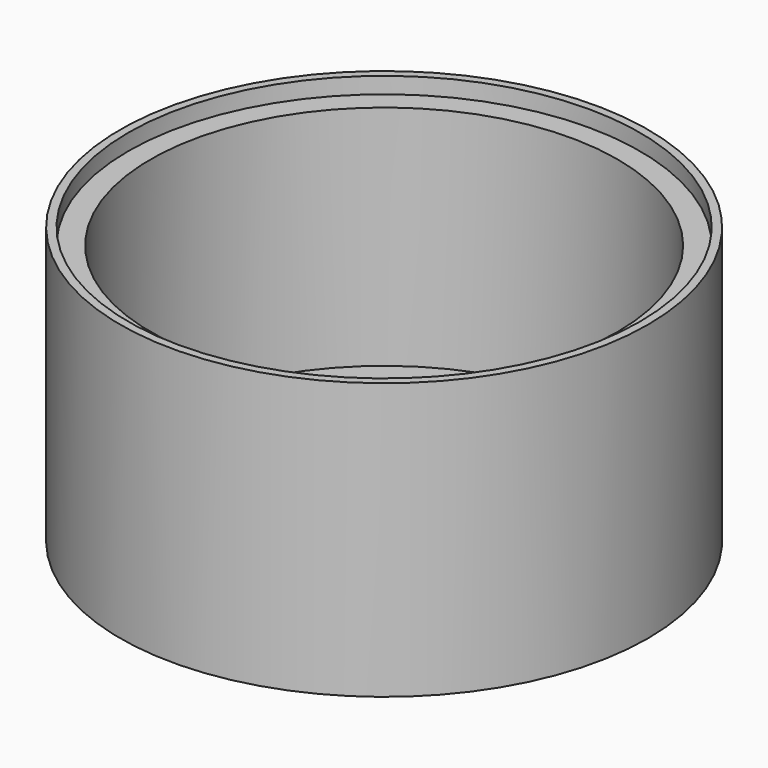
from build123d import *

# Parameters (mm, degrees)
F0_R     = 31.5
F0_R_2   = 28.75
F1_DEPTH = 28
F0_R_3   = 32.5
F2_DEPTH = 30
F3_DEPTH = 4


with BuildPart() as f1:
    # F0 (on Top) → F1 (new body)
    with BuildSketch(Plane.XY):
        Circle(F0_R)
        Circle(F0_R_2, mode=Mode.SUBTRACT)
    extrude(amount=F1_DEPTH)

    # F0 (on Top) → F2 (join)
    with BuildSketch(Plane.XY):
        Circle(F0_R_3)
        Circle(F0_R, mode=Mode.SUBTRACT)
    extrude(amount=F2_DEPTH)

    # F0 (on Top) → F3 (join)
    with BuildSketch(Plane.XY):
        Circle(F0_R_3)
        Circle(F0_R, mode=Mode.SUBTRACT)
        Circle(F0_R)
        Circle(F0_R_2, mode=Mode.SUBTRACT)
        Circle(F0_R_2)
    extrude(amount=-F3_DEPTH)


solid = f1.part
